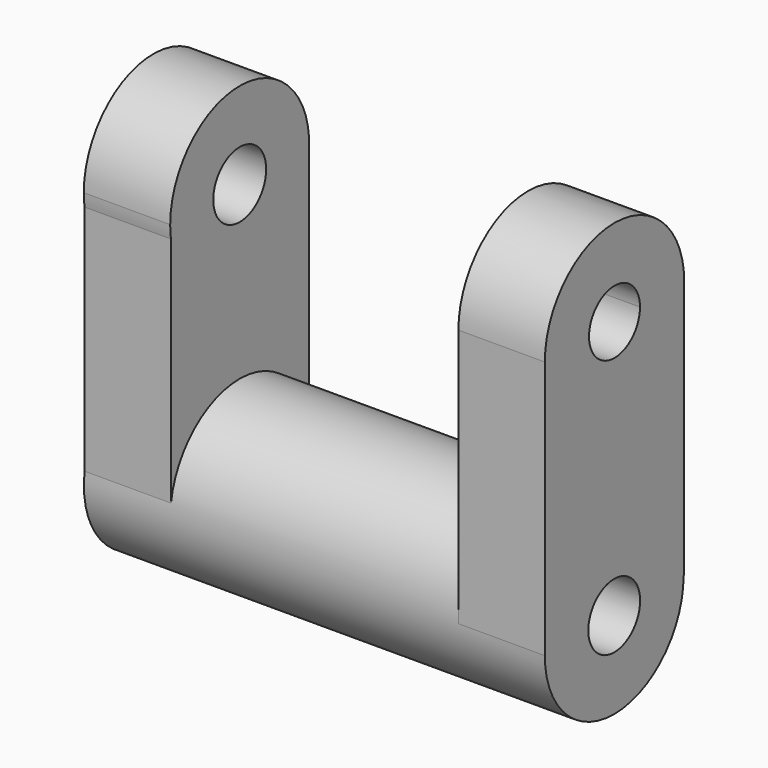
from build123d import *

# Parameters (mm, degrees)
F0_R          = 19.1193586633
F0_R_2        = 7.1332397651
F1_DEPTH      = 50.8
F1_DEPTH_BACK = 50.8
F4_DEPTH      = 19.05
F5_DEPTH      = 19.05


with BuildPart() as f1:
    # F0 (on Right) → F1 (new body, two sides)
    with BuildSketch(Plane.YZ) as f1_sk:
        Circle(F0_R)
        Circle(F0_R_2, mode=Mode.SUBTRACT)
    extrude(amount=F1_DEPTH)
    extrude(f1_sk.sketch, amount=-F1_DEPTH_BACK)

    # F3 (on face) → F4 (join)
    with BuildSketch(Plane(origin=(-50.8, 0, 0), x_dir=(0, -1, 0), z_dir=(-1, 0, 0))):
        with BuildLine():
            ThreePointArc((-19.1193586633, 0), (-1.3368786295, 19.0725622617), (18.9324021339, 2.6672129904))
            Line((18.9324021339, 2.6672129904), (18.9324021339, 53.9238598333))
            ThreePointArc((18.9324021339, 53.9238598333), (-0.9033523323, 37.6732035405), (-19.1193586633, 55.7208653984))
            Line((-19.1193586633, 55.7208653984), (-19.1193586633, 0))
        make_face()
        with BuildLine():
            Line((18.9324021339, 56.8017736077), (18.9324021339, 53.9238598333))
            ThreePointArc((18.9324021339, 53.9238598333), (19.0954396709, 55.3587136548), (19.1498887269, 56.8017736077))
            ThreePointArc((19.1498887269, 56.8017736077), (-0.5406696408, 75.9440282971), (-19.1193586633, 55.7208653984))
            Line((-19.1193586633, 55.7208653984), (-19.1193586633, 56.8017736077))
            Line((-19.1193586633, 56.8017736077), (-7.2869959292, 56.8017736077))
            ThreePointArc((-7.2869959292, 56.8017736077), (0, 64.0887695369), (7.2869959292, 56.8017736077))
            Line((7.2869959292, 56.8017736077), (18.9324021339, 56.8017736077))
        make_face()
        with BuildLine():
            ThreePointArc((-19.1193586633, 55.7208653984), (-0.9033523323, 37.6732035405), (18.9324021339, 53.9238598333))
            Line((18.9324021339, 53.9238598333), (18.9324021339, 56.8017736077))
            Line((18.9324021339, 56.8017736077), (7.2869959292, 56.8017736077))
            ThreePointArc((7.2869959292, 56.8017736077), (0, 49.5147776785), (-7.2869959292, 56.8017736077))
            Line((-7.2869959292, 56.8017736077), (-19.1193586633, 56.8017736077))
            Line((-19.1193586633, 56.8017736077), (-19.1193586633, 55.7208653984))
        make_face()
    extrude(amount=-F4_DEPTH)

    # F2 (on face) → F5 (join)
    with BuildSketch(Plane.YZ.offset(50.8)):
        with BuildLine():
            ThreePointArc((-19.1193586633, 0), (0, 19.1193586633), (19.1193586633, 0))
            Line((19.1193586633, 0), (19.2881617695, 0))
            Line((19.2881617695, 0), (19.2881617695, 56.9754652679))
            ThreePointArc((19.2881617695, 56.9754652679), (0.0844015531, 37.7717050515), (-19.1193586633, 56.9754652679))
            Line((-19.1193586633, 56.9754652679), (-19.1193586633, 0))
        make_face()
        with BuildLine():
            Line((7.098979334, 56.9754652679), (19.2881617695, 56.9754652679))
            ThreePointArc((19.2881617695, 56.9754652679), (0.0844015531, 76.1792254843), (-19.1193586633, 56.9754652679))
            Line((-19.1193586633, 56.9754652679), (-6.9301762279, 56.9754652679))
            ThreePointArc((-6.9301762279, 56.9754652679), (0.0844015531, 63.9900430488), (7.098979334, 56.9754652679))
        make_face()
        with BuildLine():
            ThreePointArc((-19.1193586633, 56.9754652679), (0.0844015531, 37.7717050515), (19.2881617695, 56.9754652679))
            Line((19.2881617695, 56.9754652679), (7.098979334, 56.9754652679))
            ThreePointArc((7.098979334, 56.9754652679), (0.0844015531, 49.960887487), (-6.9301762279, 56.9754652679))
            Line((-6.9301762279, 56.9754652679), (-19.1193586633, 56.9754652679))
        make_face()
    extrude(amount=-F5_DEPTH)


solid = f1.part
